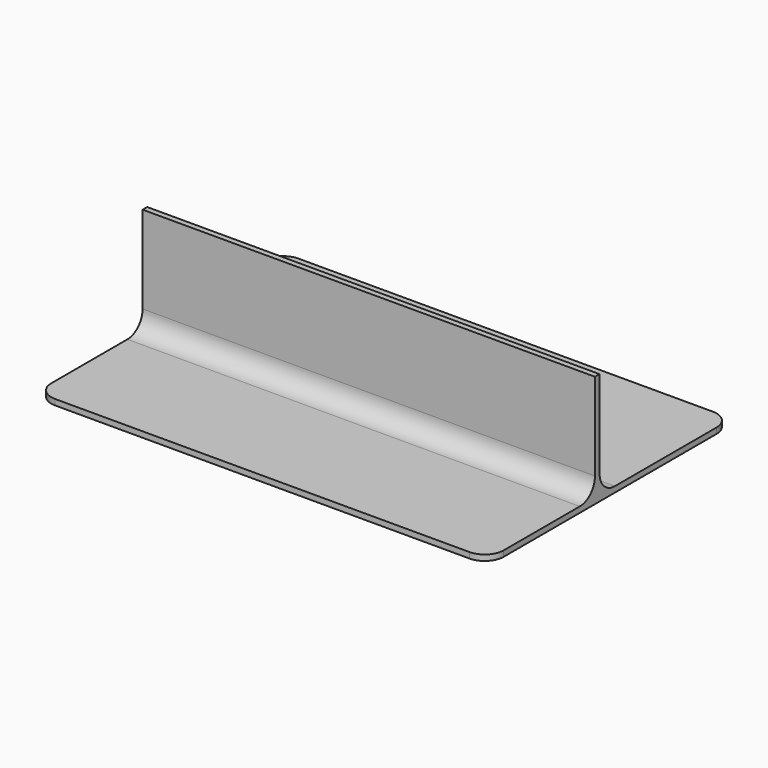
from build123d import *

# Parameters (mm, degrees)
F0_W     = 119
F0_H     = 80
F1_DEPTH = 1.5
F2_R     = 5
F3_W     = 119
F3_H     = 1.5
F4_DEPTH = 28
F5_R     = 5


with BuildPart() as f1:
    # F0 (on Top) → F1 (new body)
    with BuildSketch(Plane.XY):
        with Locations((-26.13307, -3.521777)):
            Rectangle(F0_W, F0_H)
    extrude(amount=F1_DEPTH)

    # F2
    f2_edges = [f1.edges().sort_by_distance(p)[0] for p in [
        (33.36693, -43.521777, 0.75),
        (33.36693, 36.478223, 0.75),
        (-85.63307, 36.478223, 0.75),
        (-85.63307, -43.521777, 0.75),
    ]]
    fillet(f2_edges, radius=F2_R)

    # F3 (on face) → F4 (join)
    with BuildSketch(Plane.XY.offset(1.5)):
        with Locations((-26.13307, -7.771777)):
            Rectangle(F3_W, F3_H)
    extrude(amount=F4_DEPTH)

    # F5
    f5_edges = [f1.edges().sort_by_distance(p)[0] for p in [
        (-26.13307, -7.021777, 1.5),
        (-26.13307, -8.521777, 1.5),
    ]]
    fillet(f5_edges, radius=F5_R)


solid = f1.part
